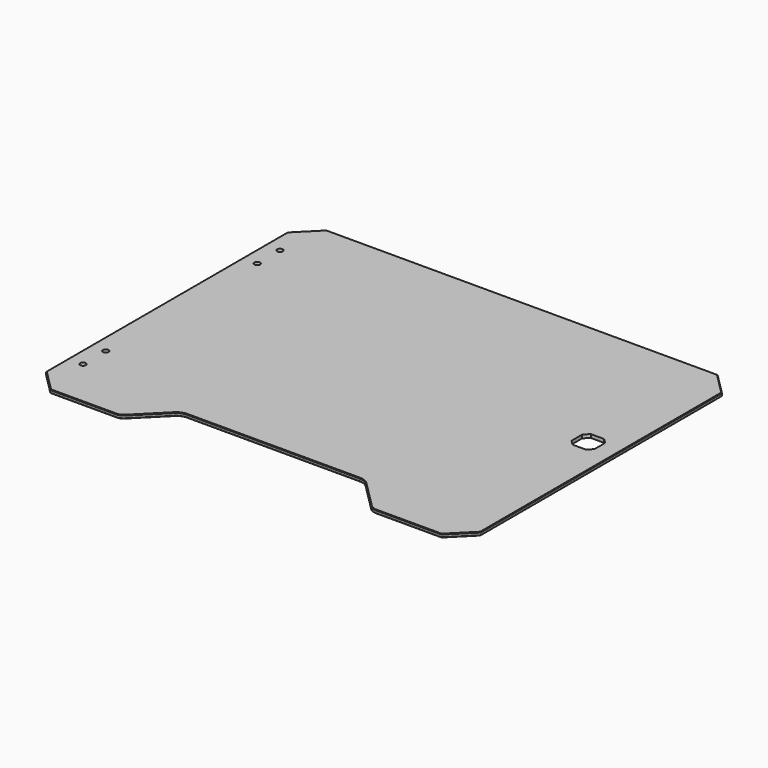
from build123d import *

# Parameters (mm, degrees)
SKETCH_R        = 2.5
SKETCH_W        = 20.1
SKETCH_H        = 20.1
PAD_DEPTH       = 3
CHAMFER_SIZE    = 19.12
CHAMFER001_SIZE = 4.19
CHAMFER002_SIZE = 0.5


with BuildPart() as part:
    # Sketch → Pad (new body)
    with BuildSketch(Plane.XY):
        with BuildLine():
            Line((-191, 151.75), (191, 151.75))
            Line((191, 151.75), (191, -151.75))
            Line((191, -151.75), (114.14, -151.75))
            ThreePointArc((108.129568, -149.260383), (110.887175, -151.102969), (114.14, -151.75))
            Line((83.987457, -125.118273), (108.129568, -149.260383))
            ThreePointArc((83.987457, -125.118273), (80.256589, -122.625386), (75.85573, -121.75))
            Line((-75.85573, -121.75), (75.85573, -121.75))
            ThreePointArc((-75.85573, -121.75), (-80.256589, -122.625386), (-83.987457, -125.118273))
            Line((-108.129593, -149.260409), (-83.987457, -125.118273))
            ThreePointArc((-114.14, -151.75), (-110.887191, -151.102976), (-108.129593, -149.260409))
            Line((-191, -151.75), (-114.14, -151.75))
            Line((-191, -151.75), (-191, 151.75))
        make_face()
        with Locations((-178, 108.25)):
            Circle(SKETCH_R, mode=Mode.SUBTRACT)
        with Locations((-178, 83.25)):
            Circle(SKETCH_R, mode=Mode.SUBTRACT)
        with Locations((-178, -83.25)):
            Circle(SKETCH_R, mode=Mode.SUBTRACT)
        with Locations((-178, -108.25)):
            Circle(SKETCH_R, mode=Mode.SUBTRACT)
        with Locations((165, 18.25)):
            Rectangle(SKETCH_W, SKETCH_H, mode=Mode.SUBTRACT)
    extrude(amount=PAD_DEPTH)

    # Chamfer
    chamfer_edges = [part.edges().sort_by_distance(p)[0] for p in [
        (-191, -151.75, 1.5),
        (191, -151.75, 1.5),
        (191, 151.75, 1.5),
        (-191, 151.75, 1.5),
    ]]
    chamfer(chamfer_edges, length=CHAMFER_SIZE)

    # Chamfer001
    chamfer001_edges = [part.edges().sort_by_distance(p)[0] for p in [
        (175.05, 28.3, 1.5),
        (154.95, 28.3, 1.5),
        (154.95, 8.2, 1.5),
        (175.05, 8.2, 1.5),
    ]]
    chamfer(chamfer001_edges, length=CHAMFER001_SIZE)

    # Chamfer002
    chamfer002_edges = [part.edges().sort_by_distance(p)[0] for p in [
        (181.44, 142.19, 0),
        (171.88, 151.75, 1.5),
        (191, 132.63, 1.5),
        (181.44, 142.19, 3),
        (191, 0, 0),
        (191, -132.63, 1.5),
        (191, 0, 3),
        (0, 151.75, 0),
        (-171.88, 151.75, 1.5),
        (0, 151.75, 3),
        (-181.44, 142.19, 0),
        (-191, 132.63, 1.5),
        (-181.44, 142.19, 3),
        (-191, 0, 0),
        (-191, -132.63, 1.5),
        (-191, 0, 3),
        (-181.44, -142.19, 0),
        (-171.88, -151.75, 1.5),
        (-181.44, -142.19, 3),
        (-143.01, -151.75, 0),
        (-143.01, -151.75, 3),
        (-110.887191, -151.102976, 0),
        (-110.887191, -151.102976, 3),
        (-96.058525, -137.189341, 0),
        (-96.058525, -137.189341, 3),
        (-80.256589, -122.625386, 0),
        (-80.256589, -122.625386, 3),
        (0, -121.75, 0),
        (0, -121.75, 3),
        (80.256589, -122.625386, 0),
        (80.256589, -122.625386, 3),
        (96.058513, -137.189328, 0),
        (96.058513, -137.189328, 3),
        (110.887175, -151.102969, 0),
        (110.887175, -151.102969, 3),
        (143.01, -151.75, 0),
        (171.88, -151.75, 1.5),
        (143.01, -151.75, 3),
        (181.44, -142.19, 0),
        (181.44, -142.19, 3),
    ]]
    chamfer(chamfer002_edges, length=CHAMFER002_SIZE)


solid = part.part
